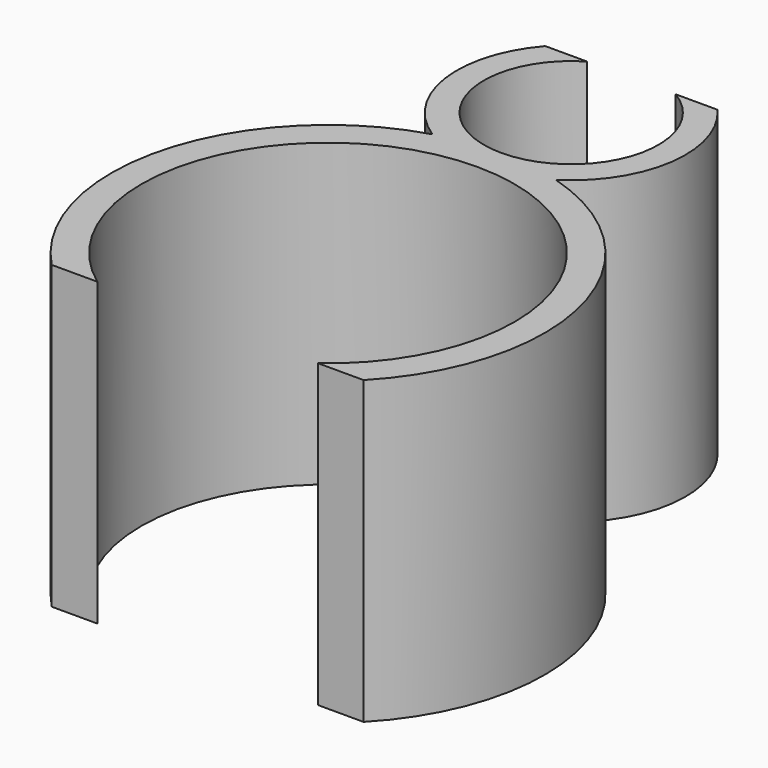
from build123d import *

# Parameters (mm, degrees)
BOX001_W      = 20
BOX001_H      = 10
BOX001_DEPTH  = 10
TUBE001_R     = 7.2
TUBE001_R_2   = 6.2
TUBE001_DEPTH = 10
BOX_W         = 10
BOX_H         = 10
BOX_DEPTH     = 10
TUBE_R        = 3.8
TUBE_R_2      = 2.9
TUBE_DEPTH    = 10


with BuildPart() as cube001:
    # Box001 → Box001 (new body)
    with BuildSketch(Plane(origin=(-10, -15, 0), x_dir=(1, 0, 0), z_dir=(0, 0, 1))):
        with Locations((10, 5)):
            Rectangle(BOX001_W, BOX001_H)
    extrude(amount=BOX001_DEPTH)


with BuildPart() as cut001:
    # Tube001 → Tube001 (new body)
    with BuildSketch(Plane.XY):
        Circle(TUBE001_R)
        Circle(TUBE001_R_2, mode=Mode.SUBTRACT)
    extrude(amount=TUBE001_DEPTH)

    # Cut001: cut Cube001
    add(cube001.part, mode=Mode.SUBTRACT)


with BuildPart() as cube:
    # Box → Box (new body)
    with BuildSketch(Plane(origin=(-5, 12.6, 0), x_dir=(1, 0, 0), z_dir=(0, 0, 1))):
        with Locations((5, 5)):
            Rectangle(BOX_W, BOX_H)
    extrude(amount=BOX_DEPTH)


with BuildPart() as fusion:
    # Tube → Tube (new body)
    with BuildSketch(Plane(origin=(0, 10.1, 0), x_dir=(1, 0, 0), z_dir=(0, 0, 1))):
        Circle(TUBE_R)
        Circle(TUBE_R_2, mode=Mode.SUBTRACT)
    extrude(amount=TUBE_DEPTH)

    # Cut: cut Cube
    add(cube.part, mode=Mode.SUBTRACT)

    # Fusion: union Cut001
    add(cut001.part)


solid = fusion.part
